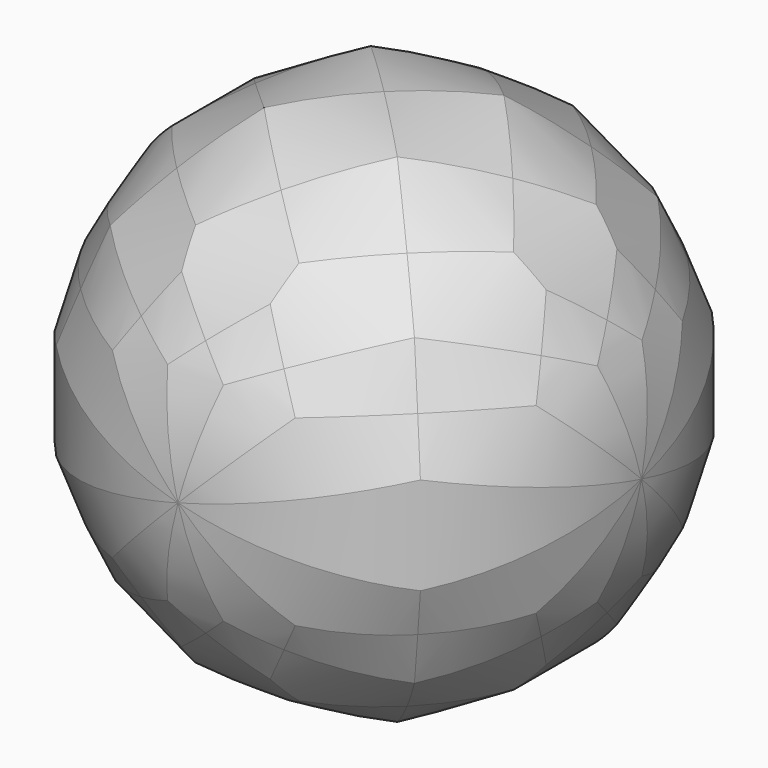
from build123d import *

# Parameters (mm, degrees)
F0_R     = 114.3
F1_DEPTH = 38100
F2_COUNT = 16
F2_ANGLE = 450
F3_COUNT = 16
F3_ANGLE = 450


with BuildPart() as f1:
    # F0 (on Top) → F1 (new body, symmetric)
    with BuildSketch(Plane.XY):
        Circle(F0_R)
    extrude(amount=F1_DEPTH, both=True)


with BuildPart() as f2_1:
    # F2: instance of F1
    add(f1.part.rotate(Axis((0, 0, 0), (0, 1, 0)), 1 * F2_ANGLE / (F2_COUNT - 1)))


with BuildPart() as f2_2:
    # F2: instance of F1
    add(f1.part.rotate(Axis((0, 0, 0), (0, 1, 0)), 2 * F2_ANGLE / (F2_COUNT - 1)))


with BuildPart() as f2_3:
    # F2: instance of F1
    add(f1.part.rotate(Axis((0, 0, 0), (0, 1, 0)), 3 * F2_ANGLE / (F2_COUNT - 1)))


with BuildPart() as f2_4:
    # F2: instance of F1
    add(f1.part.rotate(Axis((0, 0, 0), (0, 1, 0)), 4 * F2_ANGLE / (F2_COUNT - 1)))


with BuildPart() as f2_5:
    # F2: instance of F1
    add(f1.part.rotate(Axis((0, 0, 0), (0, 1, 0)), 5 * F2_ANGLE / (F2_COUNT - 1)))


with BuildPart() as f2_6:
    # F2: instance of F1
    add(f1.part.rotate(Axis((0, 0, 0), (0, 1, 0)), 6 * F2_ANGLE / (F2_COUNT - 1)))


with BuildPart() as f2_7:
    # F2: instance of F1
    add(f1.part.rotate(Axis((0, 0, 0), (0, 1, 0)), 7 * F2_ANGLE / (F2_COUNT - 1)))


with BuildPart() as f2_8:
    # F2: instance of F1
    add(f1.part.rotate(Axis((0, 0, 0), (0, 1, 0)), 8 * F2_ANGLE / (F2_COUNT - 1)))


with BuildPart() as f2_9:
    # F2: instance of F1
    add(f1.part.rotate(Axis((0, 0, 0), (0, 1, 0)), 9 * F2_ANGLE / (F2_COUNT - 1)))


with BuildPart() as f2_10:
    # F2: instance of F1
    add(f1.part.rotate(Axis((0, 0, 0), (0, 1, 0)), 10 * F2_ANGLE / (F2_COUNT - 1)))


with BuildPart() as f2_11:
    # F2: instance of F1
    add(f1.part.rotate(Axis((0, 0, 0), (0, 1, 0)), 11 * F2_ANGLE / (F2_COUNT - 1)))


with BuildPart() as f2_12:
    # F2: instance of F1
    add(f1.part.rotate(Axis((0, 0, 0), (0, 1, 0)), 12 * F2_ANGLE / (F2_COUNT - 1)))


with BuildPart() as f2_13:
    # F2: instance of F1
    add(f1.part.rotate(Axis((0, 0, 0), (0, 1, 0)), 13 * F2_ANGLE / (F2_COUNT - 1)))


with BuildPart() as f2_14:
    # F2: instance of F1
    add(f1.part.rotate(Axis((0, 0, 0), (0, 1, 0)), 14 * F2_ANGLE / (F2_COUNT - 1)))


with BuildPart() as f2_15:
    # F2: instance of F1
    add(f1.part.rotate(Axis((0, 0, 0), (0, 1, 0)), 15 * F2_ANGLE / (F2_COUNT - 1)))


with BuildPart() as f3_1:
    # F3: instance of F1
    add(f1.part.rotate(Axis((0, 0, 0), (1, 0, 0)), 1 * F3_ANGLE / (F3_COUNT - 1)))


with BuildPart() as f3_2:
    # F3: instance of F1
    add(f1.part.rotate(Axis((0, 0, 0), (1, 0, 0)), 2 * F3_ANGLE / (F3_COUNT - 1)))


with BuildPart() as f3_3:
    # F3: instance of F1
    add(f1.part.rotate(Axis((0, 0, 0), (1, 0, 0)), 3 * F3_ANGLE / (F3_COUNT - 1)))


with BuildPart() as f3_4:
    # F3: instance of F1
    add(f1.part.rotate(Axis((0, 0, 0), (1, 0, 0)), 4 * F3_ANGLE / (F3_COUNT - 1)))


with BuildPart() as f3_5:
    # F3: instance of F1
    add(f1.part.rotate(Axis((0, 0, 0), (1, 0, 0)), 5 * F3_ANGLE / (F3_COUNT - 1)))


with BuildPart() as f3_6:
    # F3: instance of F1
    add(f1.part.rotate(Axis((0, 0, 0), (1, 0, 0)), 6 * F3_ANGLE / (F3_COUNT - 1)))


with BuildPart() as f3_7:
    # F3: instance of F1
    add(f1.part.rotate(Axis((0, 0, 0), (1, 0, 0)), 7 * F3_ANGLE / (F3_COUNT - 1)))


with BuildPart() as f3_8:
    # F3: instance of F1
    add(f1.part.rotate(Axis((0, 0, 0), (1, 0, 0)), 8 * F3_ANGLE / (F3_COUNT - 1)))


with BuildPart() as f3_9:
    # F3: instance of F1
    add(f1.part.rotate(Axis((0, 0, 0), (1, 0, 0)), 9 * F3_ANGLE / (F3_COUNT - 1)))


with BuildPart() as f3_10:
    # F3: instance of F1
    add(f1.part.rotate(Axis((0, 0, 0), (1, 0, 0)), 10 * F3_ANGLE / (F3_COUNT - 1)))


with BuildPart() as f3_11:
    # F3: instance of F1
    add(f1.part.rotate(Axis((0, 0, 0), (1, 0, 0)), 11 * F3_ANGLE / (F3_COUNT - 1)))


with BuildPart() as f3_12:
    # F3: instance of F1
    add(f1.part.rotate(Axis((0, 0, 0), (1, 0, 0)), 12 * F3_ANGLE / (F3_COUNT - 1)))


with BuildPart() as f3_13:
    # F3: instance of F1
    add(f1.part.rotate(Axis((0, 0, 0), (1, 0, 0)), 13 * F3_ANGLE / (F3_COUNT - 1)))


with BuildPart() as f3_14:
    # F3: instance of F1
    add(f1.part.rotate(Axis((0, 0, 0), (1, 0, 0)), 14 * F3_ANGLE / (F3_COUNT - 1)))


with BuildPart() as f3_15:
    # F3: instance of F1
    add(f1.part.rotate(Axis((0, 0, 0), (1, 0, 0)), 15 * F3_ANGLE / (F3_COUNT - 1)))


with BuildPart() as f2_1_1:
    add(f2_1.part)

    # F4: intersect F1, F3_1, F2_2, F2_5, F2_4, F3_2, F3_4, F2_7, F3_3, F3_5, F3_7, F3_6, F2_6, F2_3, F2_8, F2_9, F2_11, F2_12, F2_15, F2_10, F2_14, F3_13, F3_11, F3_10, F2_13, F3_15, F3_12, F3_8, F3_14, F3_9
    add(f1.part, mode=Mode.INTERSECT)
    add(f3_1.part, mode=Mode.INTERSECT)
    add(f2_2.part, mode=Mode.INTERSECT)
    add(f2_5.part, mode=Mode.INTERSECT)
    add(f2_4.part, mode=Mode.INTERSECT)
    add(f3_2.part, mode=Mode.INTERSECT)
    add(f3_4.part, mode=Mode.INTERSECT)
    add(f2_7.part, mode=Mode.INTERSECT)
    add(f3_3.part, mode=Mode.INTERSECT)
    add(f3_5.part, mode=Mode.INTERSECT)
    add(f3_7.part, mode=Mode.INTERSECT)
    add(f3_6.part, mode=Mode.INTERSECT)
    add(f2_6.part, mode=Mode.INTERSECT)
    add(f2_3.part, mode=Mode.INTERSECT)
    add(f2_8.part, mode=Mode.INTERSECT)
    add(f2_9.part, mode=Mode.INTERSECT)
    add(f2_11.part, mode=Mode.INTERSECT)
    add(f2_12.part, mode=Mode.INTERSECT)
    add(f2_15.part, mode=Mode.INTERSECT)
    add(f2_10.part, mode=Mode.INTERSECT)
    add(f2_14.part, mode=Mode.INTERSECT)
    add(f3_13.part, mode=Mode.INTERSECT)
    add(f3_11.part, mode=Mode.INTERSECT)
    add(f3_10.part, mode=Mode.INTERSECT)
    add(f2_13.part, mode=Mode.INTERSECT)
    add(f3_15.part, mode=Mode.INTERSECT)
    add(f3_12.part, mode=Mode.INTERSECT)
    add(f3_8.part, mode=Mode.INTERSECT)
    add(f3_14.part, mode=Mode.INTERSECT)
    add(f3_9.part, mode=Mode.INTERSECT)


solid = f2_1_1.part
